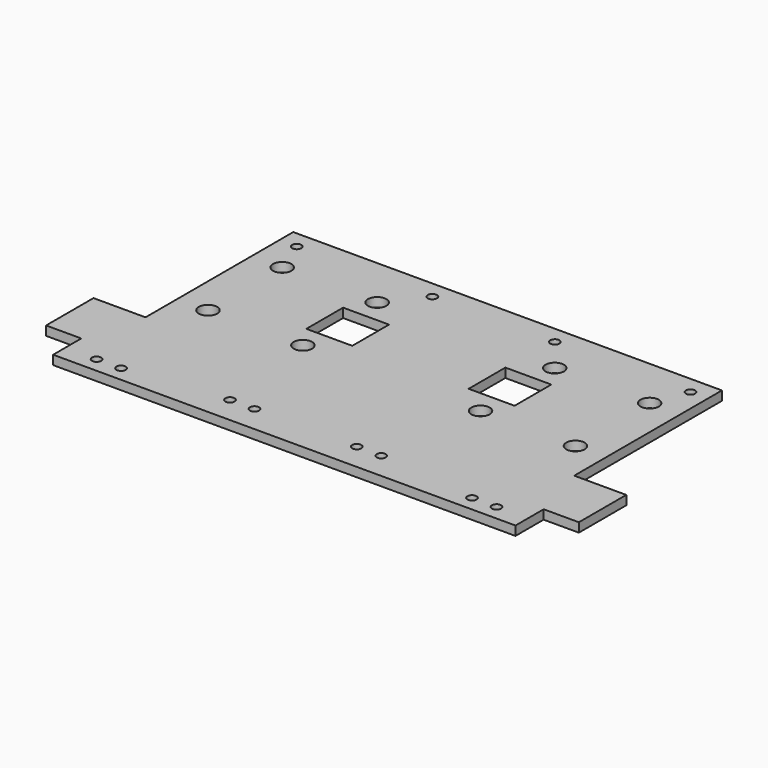
from build123d import *

# Parameters (mm, degrees)
SKETCH_R   = 3
SKETCH_R_2 = 1.5
PAD_DEPTH  = 3


with BuildPart() as part:
    # Sketch → Pad (new body)
    with BuildSketch(Plane.XY):
        Polygon((87, 0), (87, 91.15), (17, 91.15), (17, 30.85), (0, 30.85), (0, 11.5), (11.5, 11.5), (11.5, 0), align=None)
        with Locations((27, 74.15)):
            Circle(SKETCH_R, mode=Mode.SUBTRACT)
        with Locations((58, 74.15)):
            Circle(SKETCH_R, mode=Mode.SUBTRACT)
        with Locations((58, 43.85)):
            Circle(SKETCH_R, mode=Mode.SUBTRACT)
        with Locations((27, 43.85)):
            Circle(SKETCH_R, mode=Mode.SUBTRACT)
        with Locations((21.7, 5)):
            Circle(SKETCH_R_2, mode=Mode.SUBTRACT)
        with Locations((29.7, 5)):
            Circle(SKETCH_R_2, mode=Mode.SUBTRACT)
        with Locations((70.3, 8.7)):
            Circle(SKETCH_R_2, mode=Mode.SUBTRACT)
        with Locations((62.3, 8.7)):
            Circle(SKETCH_R_2, mode=Mode.SUBTRACT)
        with Locations((22.7, 85.45)):
            Circle(SKETCH_R_2, mode=Mode.SUBTRACT)
        with Locations((67, 85.45)):
            Circle(SKETCH_R_2, mode=Mode.SUBTRACT)
        Polygon((68, 59), (68, 66.5), (53, 66.5), (53, 51.5), (68, 51.5), align=None, mode=Mode.SUBTRACT)
    pad = extrude(amount=PAD_DEPTH)

    # Mirrored: Pad across face of Pad
    add(pad.mirror(Plane(origin=(87, 45.575, 1.5), x_dir=(0, 1, 0), z_dir=(1, 0, 0))))


solid = part.part
